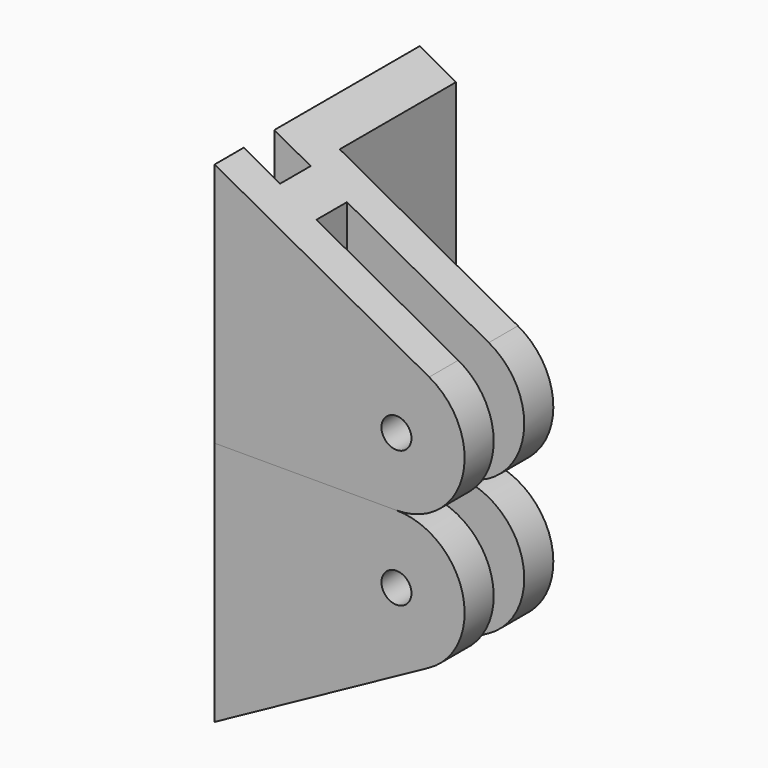
from build123d import *

# Parameters (mm, degrees)
SKETCH001_R   = 1.65
EXTRUDE_DEPTH = 40
PAD_DEPTH     = 27


with BuildPart() as extrude_body:
    # Sketch001 → Extrude (new body, symmetric)
    with BuildSketch(Plane.XZ):
        with BuildLine():
            ThreePointArc((20, 0), (27.266003, 5.641182), (23.601647, 14.078612))
            Line((0, 27), (23.601647, 14.078612))
            Line((0, 0), (0, 27))
            Line((0, 0), (20, 0))
        make_face()
        with Locations((20, 7.5)):
            Circle(SKETCH001_R, mode=Mode.SUBTRACT)
    extrude(amount=EXTRUDE_DEPTH, both=True)


with BuildPart() as body:
    # Sketch → Pad (new body)
    with BuildSketch(Plane.XY):
        Polygon((0, 22.1), (4, 22.1), (4, 6.1), (27.5, 6.1), (27.5, 2.1), (8, 2.1), (8, -2.1), (27.5, -2.1), (27.5, -6.1), (0, -6.1), (0, -2.1), (4, -2.1), (4, 2.1), (0, 2.1), align=None)
    extrude(amount=PAD_DEPTH)


with BuildPart() as common:
    # Common base: copy of Body
    add(body.part)

    # Common: intersect Extrude body
    add(extrude_body.part, mode=Mode.INTERSECT)


with BuildPart() as part_mirroring:
    # Part__Mirroring: instance of Body
    add(body.part.mirror(Plane(origin=(0, 0, 0), x_dir=(0, 1, 0), z_dir=(0, 0, 1))))


with BuildPart() as common001:
    # Part__Mirroring001: instance of Extrude body
    add(extrude_body.part.mirror(Plane(origin=(0, 0, 0), x_dir=(0, 1, 0), z_dir=(0, 0, 1))))

    # Common001: intersect Part__Mirroring
    add(part_mirroring.part, mode=Mode.INTERSECT)


solid = Compound([common.part, common001.part])
